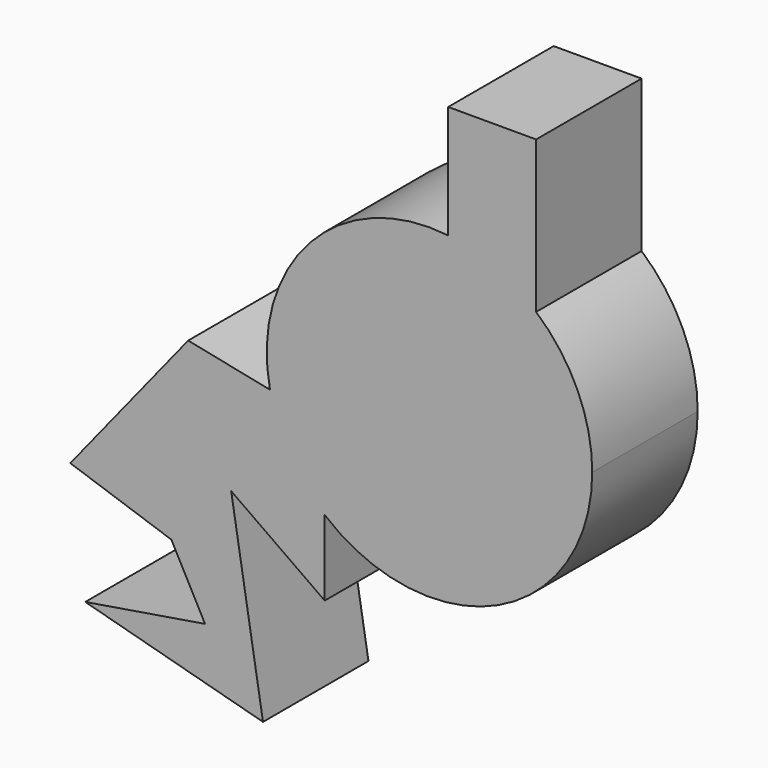
from build123d import *

# Parameters (mm, degrees)
F1_DEPTH = 25.4
F3_DEPTH = 25.4


with BuildPart() as f1:
    # F0 (on Front) → F1 (new body)
    with BuildSketch(Plane.XZ):
        Polygon((-199.5275318623, -22.8119939566), (-180.0614446402, -29.4490549713), (-173.5727488995, -41.6347756982), (-196.6436803341, -45.4109199345), (-162.3977720737, -54.6305887401), (-168.5259789228, -17.4674503505), (-150.5018025637, -30.1844198257), (-150.5018025637, 0), (-176.8171042204, 5.3729466163), align=None)
    extrude(amount=F1_DEPTH)

    # F2 (on Front) → F3 (join)
    with BuildSketch(Plane.XZ):
        with BuildLine():
            Line((-109.767191112, 61.2932294607), (-126.709908247, 61.2932294607))
            Line((-126.709908247, 61.2932294607), (-126.709908247, 39.4931892306))
            ThreePointArc((-126.709908247, 39.4931892306), (-117.6753186658, 37.0409814921), (-109.767191112, 32.031126176))
            Line((-109.767191112, 32.031126176), (-109.767191112, 61.2932294607))
        make_face()
        with BuildLine():
            ThreePointArc((-109.767191112, 32.031126176), (-117.6753186658, 37.0409814921), (-126.709908247, 39.4931892306))
            Line((-126.709908247, 39.4931892306), (-126.709908247, 24.0076240152))
            Line((-126.709908247, 24.0076240152), (-109.767191112, 24.0076240152))
            Line((-109.767191112, 24.0076240152), (-109.767191112, 32.031126176))
        make_face()
        with BuildLine():
            Line((-126.709908247, 24.0076240152), (-126.709908247, 39.4931892306))
            ThreePointArc((-126.709908247, 39.4931892306), (-141.5942846277, 37.6022015758), (-153.8963533146, 29.0126963179))
            ThreePointArc((-153.8963533146, 29.0126963179), (-141.3568088034, -21.0066330726), (-98.9566655593, 8.3430064842))
            ThreePointArc((-98.9566655593, 8.3430064842), (-101.7870306722, 21.3621700255), (-109.767191112, 32.031126176))
            Line((-109.767191112, 32.031126176), (-109.767191112, 24.0076240152))
            Line((-109.767191112, 24.0076240152), (-126.709908247, 24.0076240152))
        make_face()
    extrude(amount=F3_DEPTH)


solid = f1.part
